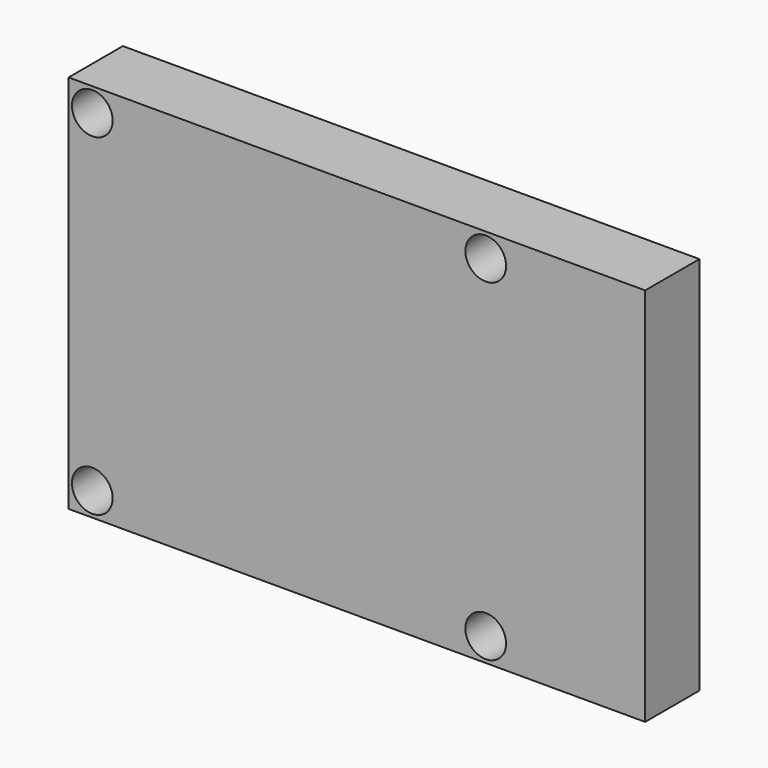
from build123d import *

# Parameters (mm, degrees)
F1_DEPTH = 10
F2_R     = 3
F3_DEPTH = 8


with BuildPart() as f1:
    # F0 (on Front) → F1 (new body)
    with BuildSketch(Plane.XZ):
        with BuildLine():
            Line((42.5, 24.5), (42.5, 28))
            Line((42.5, 28), (-39, 28))
            Line((-39, 28), (-39, 26))
            ThreePointArc((-39, 26), (-37.93934, 25.56066), (-37.5, 24.5))
            Line((-37.5, 24.5), (17.5, 24.5))
            ThreePointArc((17.5, 24.5), (19, 26), (20.5, 24.5))
            Line((20.5, 24.5), (42.5, 24.5))
        make_face()
        with BuildLine():
            ThreePointArc((20.5, -24.5), (19, -23), (17.5, -24.5))
            ThreePointArc((17.5, -24.5), (19, -26), (20.5, -24.5))
        make_face()
        with BuildLine():
            Line((-39, 26), (-39, 28))
            Line((-39, 28), (-42.5, 28))
            Line((-42.5, 28), (-42.5, -28))
            Line((-42.5, -28), (-39, -28))
            Line((-39, -28), (42.5, -28))
            Line((42.5, -28), (42.5, 24.5))
            Line((42.5, 24.5), (20.5, 24.5))
            ThreePointArc((20.5, 24.5), (19, 23), (17.5, 24.5))
            Line((17.5, 24.5), (-37.5, 24.5))
            ThreePointArc((-37.5, 24.5), (-40.06066, 23.43934), (-39, 26))
        make_face()
        with BuildLine():
            ThreePointArc((-37.5, -24.5), (-37.93934, -25.56066), (-39, -26))
            ThreePointArc((-39, -26), (-40.06066, -23.43934), (-37.5, -24.5))
        make_face(mode=Mode.SUBTRACT)
        with BuildLine():
            ThreePointArc((20.5, -24.5), (19, -26), (17.5, -24.5))
            ThreePointArc((17.5, -24.5), (19, -23), (20.5, -24.5))
        make_face(mode=Mode.SUBTRACT)
    extrude(amount=F1_DEPTH)

    # F2 (on face) → F3 (cut)
    with BuildSketch(Plane.XZ.offset(10)):
        with Locations((-39, 24.5)):
            Circle(F2_R)
        with Locations((19, 24.5)):
            Circle(F2_R)
        with Locations((19, -24.5)):
            Circle(F2_R)
        with Locations((-39, -24.5)):
            Circle(F2_R)
    extrude(amount=-F3_DEPTH, mode=Mode.SUBTRACT)


solid = f1.part
